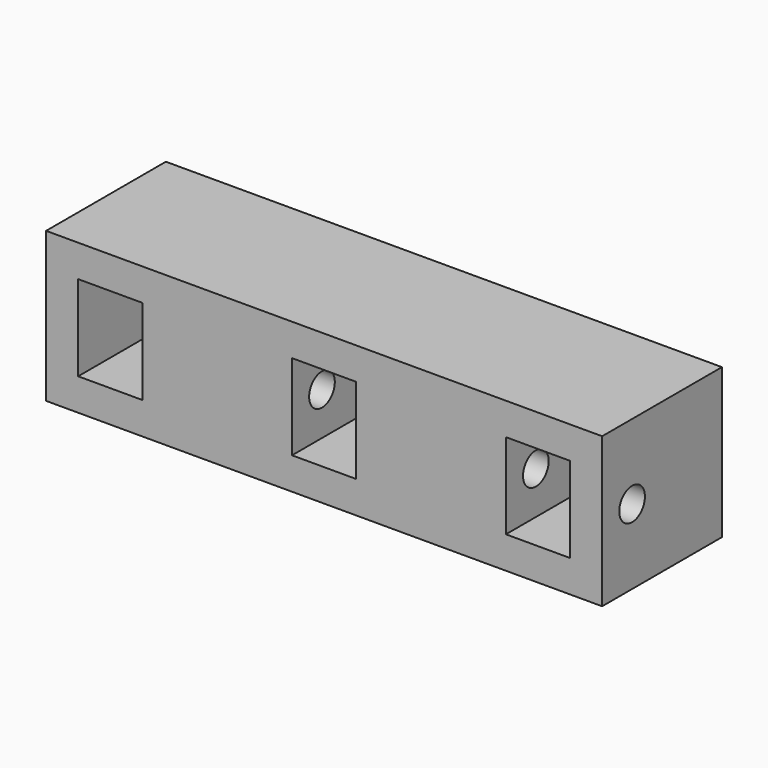
from build123d import *

# Parameters (mm, degrees)
SKETCH111_W      = 26
SKETCH111_H      = 7
EXTRUDE047_DEPTH = 7
SKETCH131_W      = 3
SKETCH131_H      = 4
POCKET025_DEPTH  = 4
SKETCH132_R      = 0.75
HOLE029_DEPTH    = 24


with BuildPart() as part:
    # Sketch111 → Extrude047 (new body)
    with BuildSketch(Plane.XY):
        with Locations((-134, -113.5)):
            Rectangle(SKETCH111_W, SKETCH111_H)
    extrude(amount=EXTRUDE047_DEPTH)

    # Sketch131 (on Face3 of BaseFeature016) → Pocket025 (cut)
    with BuildSketch(Plane.XZ.offset(117)):
        with Locations((-134.000002, 3.5)):
            Rectangle(SKETCH131_W, SKETCH131_H)
        with Locations((-144.000002, 3.5)):
            Rectangle(SKETCH131_W, SKETCH131_H)
        with Locations((-124.000002, 3.5)):
            Rectangle(SKETCH131_W, SKETCH131_H)
    extrude(amount=-POCKET025_DEPTH, mode=Mode.SUBTRACT)

    # Sketch132 (on Face3 of Pocket025) → Hole029 (cut)
    with BuildSketch(Plane.YZ.offset(-121)):
        with Locations((-115.249997, 3.5)):
            Circle(SKETCH132_R)
    extrude(amount=-HOLE029_DEPTH, mode=Mode.SUBTRACT)


solid = part.part
